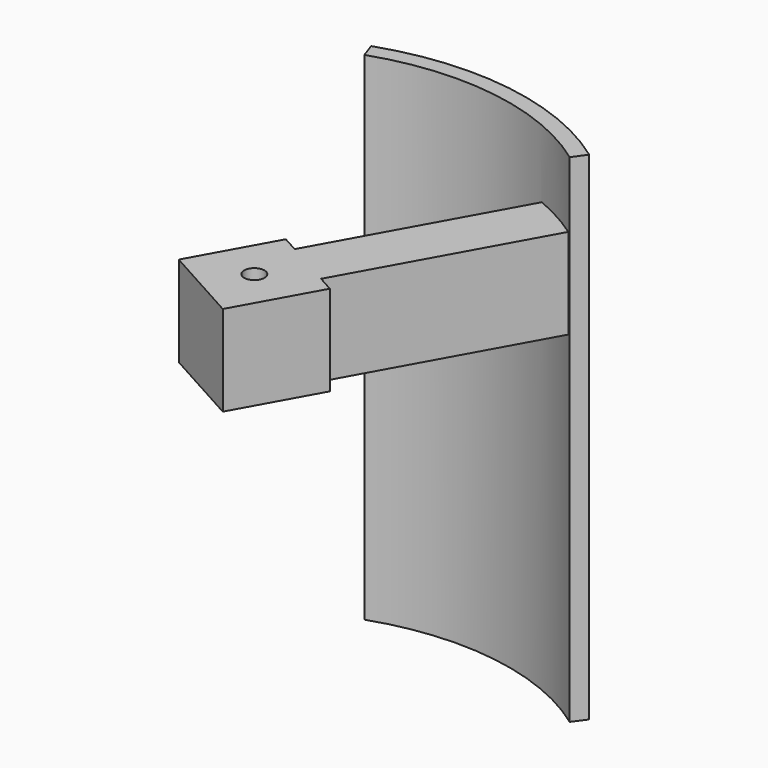
from build123d import *

# Parameters (mm, degrees)
PAD126_DEPTH              = 22
SKETCH190_W               = 4
SKETCH190_H               = 4
PAD125_DEPTH              = 13.5
SKETCH187_R               = 0.45
SKETCH187_W               = 0.8
SKETCH187_H               = 9.5
POCKET016_DEPTH           = 5
BODY017_PLACEMENT_ANGLE   = 90
FUSION001_PLACEMENT_ANGLE = 29


with BuildPart() as segment_wing001:
    # Sketch183 → Pad126 (new body)
    with BuildSketch(Plane.XY):
        with BuildLine():
            ThreePointArc((1.377124, 11.215772), (-3.957343, 10.584396), (-8.397537, 7.561176))
            Line((-8.397537, 7.561176), (-8.917738, 8.029567))
            ThreePointArc((1.462432, 11.910554), (-4.202489, 11.240066), (-8.917738, 8.029567))
            Line((1.377124, 11.215772), (1.462432, 11.910554))
        make_face()
    extrude(amount=PAD126_DEPTH)


with BuildPart() as segment_wing001_1:
    # Body020 placement: moved
    add(segment_wing001.part.moved(Location((0, 0, -9))))


with BuildPart() as segment_on001:
    # Sketch190 → Pad125 (new body)
    with BuildSketch(Plane.XY):
        with Locations((0, 6)):
            Rectangle(SKETCH190_W, SKETCH190_H)
    extrude(amount=PAD125_DEPTH)

    # Sketch187 (on Face1 of Pad125) → Pocket016 (cut)
    with BuildSketch(Plane(origin=(0, 8, 0), x_dir=(-1, 0, 0), z_dir=(0, 1, 0))):
        with Locations((0, 11.5)):
            Circle(SKETCH187_R)
        with Locations((-1.6, 4.75)):
            Rectangle(SKETCH187_W, SKETCH187_H)
        with Locations((1.6, 4.75)):
            Rectangle(SKETCH187_W, SKETCH187_H)
    extrude(amount=-POCKET016_DEPTH, mode=Mode.SUBTRACT)


with BuildPart() as segment_on001_1:
    # Body017 placement: moved
    add(segment_on001.part.moved(Location((0, 11.5, 2))).rotate(Axis((0, 11.5, 2), (1, 0, 0)), BODY017_PLACEMENT_ANGLE))

    # Fusion001: union Segment_Wing001
    add(segment_wing001_1.part)


with BuildPart() as segment_on001_2:
    # Fusion001 placement: moved
    add(segment_on001_1.part.rotate(Axis((0, 0, 0), (0, 0, -1)), FUSION001_PLACEMENT_ANGLE))


solid = segment_on001_2.part
